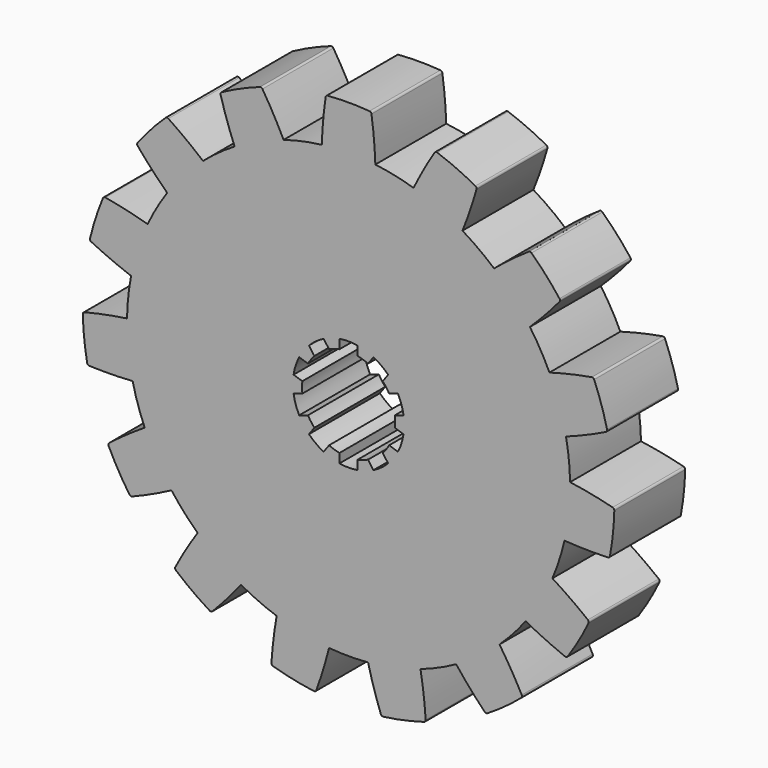
from build123d import *

# Parameters (mm, degrees)
F1_DEPTH = 20
F2_R     = 0.5


with BuildPart() as f1:
    # F0 (on Front) → F1 (new body)
    with BuildSketch(Plane.XZ):
        with BuildLine():
            ThreePointArc((5.114599, 59.78161), (0, 60), (-5.114599, 59.78161))
            ThreePointArc((-5.114599, 59.78161), (-5.723781, 54.720581), (-6.045446, 49.63318))
            ThreePointArc((-6.045446, 49.63318), (-10.395585, 48.90738), (-14.664844, 47.801071))
            ThreePointArc((-14.664844, 47.801071), (-17.027932, 52.31781), (-19.642953, 56.693513))
            ThreePointArc((-19.642953, 56.693513), (-24.404199, 54.812727), (-28.98779, 52.532923))
            ThreePointArc((-28.98779, 52.532923), (-27.485799, 47.661667), (-25.710422, 42.883262))
            ThreePointArc((-25.710422, 42.883262), (-29.389263, 40.45085), (-32.839448, 37.703722))
            ThreePointArc((-32.839448, 37.703722), (-36.83536, 40.868814), (-41.004059, 43.802593))
            ThreePointArc((-41.004059, 43.802593), (-44.58869, 40.147836), (-47.848729, 36.200817))
            ThreePointArc((-47.848729, 36.200817), (-44.495273, 32.361618), (-40.929834, 28.718438))
            ThreePointArc((-40.929834, 28.718438), (-43.30127, 25), (-45.335814, 21.087057))
            ThreePointArc((-45.335814, 21.087057), (-50.27362, 22.353228), (-55.275192, 23.337806))
            ThreePointArc((-55.275192, 23.337806), (-57.063391, 18.54102), (-58.436188, 13.609261))
            ThreePointArc((-58.436188, 13.609261), (-53.811111, 11.465951), (-49.072105, 9.587936))
            ThreePointArc((-49.072105, 9.587936), (-49.726095, 5.226423), (-49.993206, 0.824248))
            ThreePointArc((-49.993206, 0.824248), (-55.019114, -0.027433), (-59.988741, -1.162299))
            ThreePointArc((-59.988741, -1.162299), (-59.671314, -6.271708), (-58.919499, -11.335461))
            ThreePointArc((-58.919499, -11.335461), (-53.822518, -11.412283), (-48.729363, -11.200408))
            ThreePointArc((-48.729363, -11.200408), (-47.552826, -15.45085), (-46.006318, -19.581081))
            ThreePointArc((-46.006318, -19.581081), (-50.251304, -22.403351), (-54.329692, -25.461432))
            ThreePointArc((-54.329692, -25.461432), (-51.961524, -30), (-49.215093, -34.320178))
            ThreePointArc((-49.215093, -34.320178), (-44.527523, -32.31723), (-39.960872, -30.0521))
            ThreePointArc((-39.960872, -30.0521), (-37.157241, -33.45653), (-34.06452, -36.600663))
            ThreePointArc((-34.06452, -36.600663), (-36.794586, -40.905526), (-39.276546, -45.358052))
            ThreePointArc((-39.276546, -45.358052), (-35.267115, -48.54102), (-31.000951, -51.370624))
            ThreePointArc((-31.000951, -51.370624), (-27.533315, -47.634234), (-24.282783, -43.70751))
            ThreePointArc((-24.282783, -43.70751), (-20.336832, -45.677273), (-16.232657, -47.291657))
            ThreePointArc((-16.232657, -47.291657), (-16.975751, -52.334764), (-17.432128, -57.411853))
            ThreePointArc((-17.432128, -57.411853), (-12.474701, -58.688856), (-7.426463, -59.538623))
            ThreePointArc((-7.426463, -59.538623), (-5.778346, -54.714846), (-4.40598, -49.805495))
            ThreePointArc((-4.40598, -49.805495), (0, -50), (4.40598, -49.805495))
            ThreePointArc((4.40598, -49.805495), (5.778346, -54.714846), (7.426463, -59.538623))
            ThreePointArc((7.426463, -59.538623), (12.474701, -58.688856), (17.432128, -57.411853))
            ThreePointArc((17.432128, -57.411853), (16.975751, -52.334764), (16.232657, -47.291657))
            ThreePointArc((16.232657, -47.291657), (20.336832, -45.677273), (24.282783, -43.70751))
            ThreePointArc((24.282783, -43.70751), (27.533315, -47.634234), (31.000951, -51.370624))
            ThreePointArc((31.000951, -51.370624), (35.267115, -48.54102), (39.276546, -45.358052))
            ThreePointArc((39.276546, -45.358052), (36.794586, -40.905526), (34.06452, -36.600663))
            ThreePointArc((34.06452, -36.600663), (37.157241, -33.45653), (39.960872, -30.0521))
            ThreePointArc((39.960872, -30.0521), (44.527523, -32.31723), (49.215093, -34.320178))
            ThreePointArc((49.215093, -34.320178), (51.961524, -30), (54.329692, -25.461432))
            ThreePointArc((54.329692, -25.461432), (50.251304, -22.403351), (46.006318, -19.581081))
            ThreePointArc((46.006318, -19.581081), (47.552826, -15.45085), (48.729363, -11.200408))
            ThreePointArc((48.729363, -11.200408), (53.822518, -11.412283), (58.919499, -11.335461))
            ThreePointArc((58.919499, -11.335461), (59.671314, -6.271708), (59.988741, -1.162299))
            ThreePointArc((59.988741, -1.162299), (55.019114, -0.027433), (49.993206, 0.824248))
            ThreePointArc((49.993206, 0.824248), (49.726095, 5.226423), (49.072105, 9.587936))
            ThreePointArc((49.072105, 9.587936), (53.811111, 11.465951), (58.436188, 13.609261))
            ThreePointArc((58.436188, 13.609261), (57.063391, 18.54102), (55.275192, 23.337806))
            ThreePointArc((55.275192, 23.337806), (50.27362, 22.353228), (45.335814, 21.087057))
            ThreePointArc((45.335814, 21.087057), (43.30127, 25), (40.929834, 28.718438))
            ThreePointArc((40.929834, 28.718438), (44.495273, 32.361618), (47.848729, 36.200817))
            ThreePointArc((47.848729, 36.200817), (44.58869, 40.147836), (41.004059, 43.802593))
            ThreePointArc((41.004059, 43.802593), (36.83536, 40.868814), (32.839448, 37.703722))
            ThreePointArc((32.839448, 37.703722), (29.389263, 40.45085), (25.710422, 42.883262))
            ThreePointArc((25.710422, 42.883262), (27.485799, 47.661667), (28.98779, 52.532923))
            ThreePointArc((28.98779, 52.532923), (24.404199, 54.812727), (19.642953, 56.693513))
            ThreePointArc((19.642953, 56.693513), (17.027932, 52.31781), (14.664844, 47.801071))
            ThreePointArc((14.664844, 47.801071), (10.395585, 48.90738), (6.045446, 49.63318))
            ThreePointArc((6.045446, 49.63318), (5.723781, 54.720581), (5.114599, 59.78161))
        make_face()
        with BuildLine():
            ThreePointArc((-2.05, 12.381438), (0, 12.55), (2.05, 12.381438))
            Line((2.05, 12.381438), (2.05, 10.297937))
            ThreePointArc((2.05, 10.297937), (3.244678, 9.986093), (4.39449, 9.536166))
            Line((4.39449, 9.536166), (5.619142, 11.221753))
            ThreePointArc((5.619142, 11.221753), (7.376705, 10.153163), (8.936111, 8.811834))
            Line((8.936111, 8.811834), (7.71146, 7.126246))
            ThreePointArc((7.71146, 7.126246), (8.494678, 6.171745), (9.160435, 5.131903))
            Line((9.160435, 5.131903), (11.141962, 5.775741))
            ThreePointArc((11.141962, 5.775741), (11.935759, 3.878163), (12.408932, 1.876409))
            Line((12.408932, 1.876409), (10.427405, 1.232572))
            ThreePointArc((10.427405, 1.232572), (10.5, 0), (10.427405, -1.232572))
            Line((10.427405, -1.232572), (12.408932, -1.876409))
            ThreePointArc((12.408932, -1.876409), (11.935759, -3.878163), (11.141962, -5.775741))
            Line((11.141962, -5.775741), (9.160435, -5.131903))
            ThreePointArc((9.160435, -5.131903), (8.494678, -6.171745), (7.71146, -7.126246))
            Line((7.71146, -7.126246), (8.936111, -8.811834))
            ThreePointArc((8.936111, -8.811834), (7.376705, -10.153163), (5.619142, -11.221753))
            Line((5.619142, -11.221753), (4.39449, -9.536166))
            ThreePointArc((4.39449, -9.536166), (3.244678, -9.986093), (2.05, -10.297937))
            Line((2.05, -10.297937), (2.05, -12.381438))
            ThreePointArc((2.05, -12.381438), (0, -12.55), (-2.05, -12.381438))
            Line((-2.05, -12.381438), (-2.05, -10.297937))
            ThreePointArc((-2.05, -10.297937), (-3.244678, -9.986093), (-4.39449, -9.536166))
            Line((-4.39449, -9.536166), (-5.619142, -11.221753))
            ThreePointArc((-5.619142, -11.221753), (-7.376705, -10.153163), (-8.936111, -8.811834))
            Line((-8.936111, -8.811834), (-7.71146, -7.126246))
            ThreePointArc((-7.71146, -7.126246), (-8.494678, -6.171745), (-9.160435, -5.131903))
            Line((-9.160435, -5.131903), (-11.141962, -5.775741))
            ThreePointArc((-11.141962, -5.775741), (-11.935759, -3.878163), (-12.408932, -1.876409))
            Line((-12.408932, -1.876409), (-10.427405, -1.232572))
            ThreePointArc((-10.427405, -1.232572), (-10.5, 0), (-10.427405, 1.232572))
            Line((-10.427405, 1.232572), (-12.408932, 1.876409))
            ThreePointArc((-12.408932, 1.876409), (-11.935759, 3.878163), (-11.141962, 5.775741))
            Line((-11.141962, 5.775741), (-9.160435, 5.131903))
            ThreePointArc((-9.160435, 5.131903), (-8.494678, 6.171745), (-7.71146, 7.126246))
            Line((-7.71146, 7.126246), (-8.936111, 8.811834))
            ThreePointArc((-8.936111, 8.811834), (-7.376705, 10.153163), (-5.619142, 11.221753))
            Line((-5.619142, 11.221753), (-4.39449, 9.536166))
            ThreePointArc((-4.39449, 9.536166), (-3.244678, 9.986093), (-2.05, 10.297937))
            Line((-2.05, 10.297937), (-2.05, 12.381438))
        make_face(mode=Mode.SUBTRACT)
    extrude(amount=F1_DEPTH)

    # F2
    f2_edges = [f1.edges().sort_by_distance(p)[0] for p in [
        (-5.114599, -10, 59.78161),
        (5.114599, -10, 59.78161),
        (19.642953, -10, 56.693513),
        (28.98779, -10, 52.532923),
        (41.004059, -10, 43.802593),
        (47.848729, -10, 36.200817),
        (55.275192, -10, 23.337806),
        (58.436188, -10, 13.609261),
        (59.988741, -10, -1.162299),
        (58.919499, -10, -11.335461),
        (54.329692, -10, -25.461432),
        (49.215093, -10, -34.320178),
        (39.276546, -10, -45.358052),
        (31.000951, -10, -51.370624),
        (17.432128, -10, -57.411853),
        (7.426463, -10, -59.538623),
        (-7.426463, -10, -59.538623),
        (-17.432128, -10, -57.411853),
        (-39.276546, -10, -45.358052),
        (-31.000951, -10, -51.370624),
        (-54.329692, -10, -25.461432),
        (-49.215093, -10, -34.320178),
        (-59.988741, -10, -1.162299),
        (-58.919499, -10, -11.335461),
        (-55.275192, -10, 23.337806),
        (-58.436188, -10, 13.609261),
        (-41.004059, -10, 43.802593),
        (-47.848729, -10, 36.200817),
        (-19.642953, -10, 56.693513),
        (-28.98779, -10, 52.532923),
    ]]
    fillet(f2_edges, radius=F2_R)


solid = f1.part
